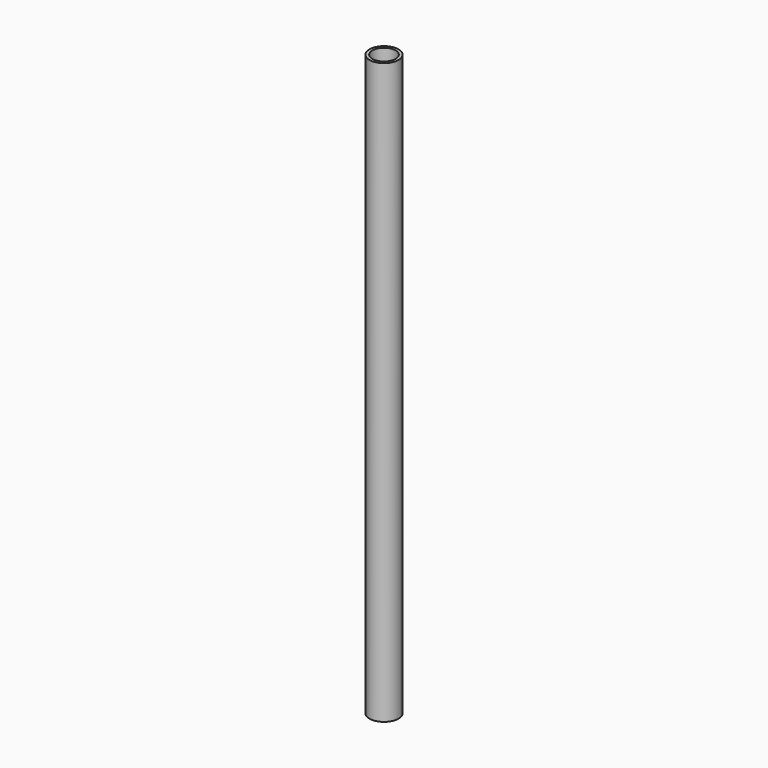
from build123d import *

# Parameters (mm, degrees)
F0_R     = 2.5
F1_DEPTH = 100
F2_R     = 2
F3_DEPTH = 101


with BuildPart() as f1:
    # F0 (on Top) → F1 (new body)
    with BuildSketch(Plane.XY):
        Circle(F0_R)
    extrude(amount=-F1_DEPTH)

    # F2 (on face) → F3 (cut)
    with BuildSketch(Plane.XY):
        Circle(F2_R)
    extrude(amount=-F3_DEPTH, mode=Mode.SUBTRACT)


solid = f1.part
